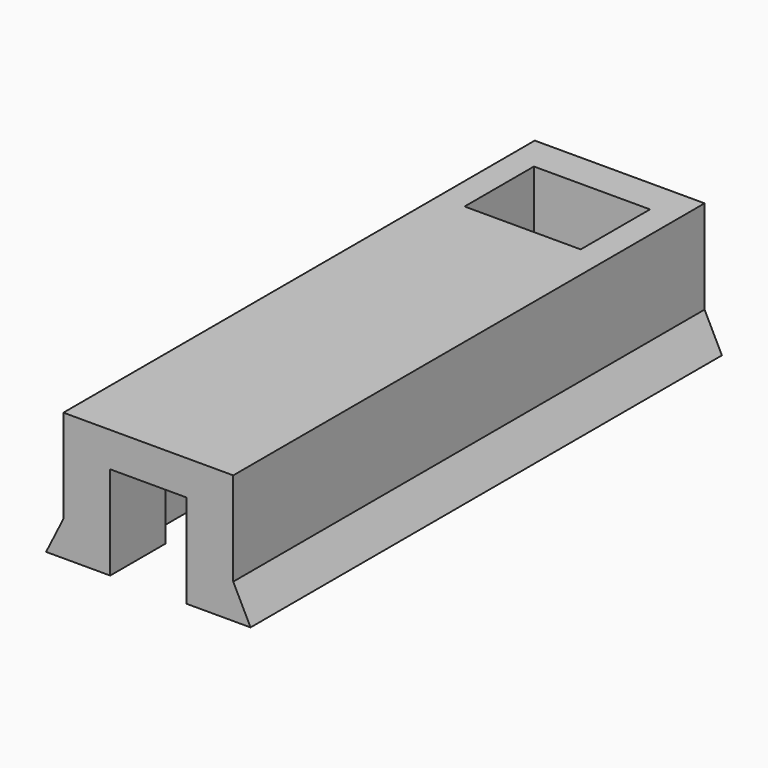
from build123d import *

# Parameters (mm, degrees)
PAD_DEPTH    = 2
PAD001_DEPTH = 5
PAD002_DEPTH = 23
PAD003_DEPTH = 4


with BuildPart() as part:
    # Sketch → Pad (new body)
    with BuildSketch(Plane.XZ):
        Polygon((5.9, 0), (4.9, 2), (4.9, 7.4), (0, 7.4), (0, 0), align=None)
    pad = extrude(amount=PAD_DEPTH)

    # Sketch001 → Pad001 (join)
    with BuildSketch(Plane.XZ.offset(2)):
        Polygon((5.9, 0), (4.9, 2), (4.9, 7.4), (3.35, 7.4), (3.35, 0), align=None)
    pad001 = extrude(amount=PAD001_DEPTH)

    # Sketch002 → Pad002 (join)
    with BuildSketch(Plane.XZ.offset(7)):
        Polygon((5.9, 0), (4.9, 2), (4.9, 7.4), (0, 7.4), (0, 5.4), (3.35, 5.4), (3.35, 0), align=None)
    pad002 = extrude(amount=PAD002_DEPTH)

    # Sketch003 → Pad003 (join)
    with BuildSketch(Plane.XZ.offset(30)):
        Polygon((5.9, 0), (4.9, 2), (4.9, 7.4), (0, 7.4), (0, 5.4), (2.2, 5.4), (2.2, 0), (3.35, 0), align=None)
    pad003 = extrude(amount=PAD003_DEPTH)

    # Mirrored: Pad, Pad001, Pad002, Pad003 across Sketch V_Axis
    add(pad.mirror(Plane(origin=(0, 0, 0), x_dir=(0, -1, 0), z_dir=(1, 0, 0))))
    add(pad001.mirror(Plane(origin=(0, 0, 0), x_dir=(0, -1, 0), z_dir=(1, 0, 0))))
    add(pad002.mirror(Plane(origin=(0, 0, 0), x_dir=(0, -1, 0), z_dir=(1, 0, 0))))
    add(pad003.mirror(Plane(origin=(0, 0, 0), x_dir=(0, -1, 0), z_dir=(1, 0, 0))))


solid = part.part
